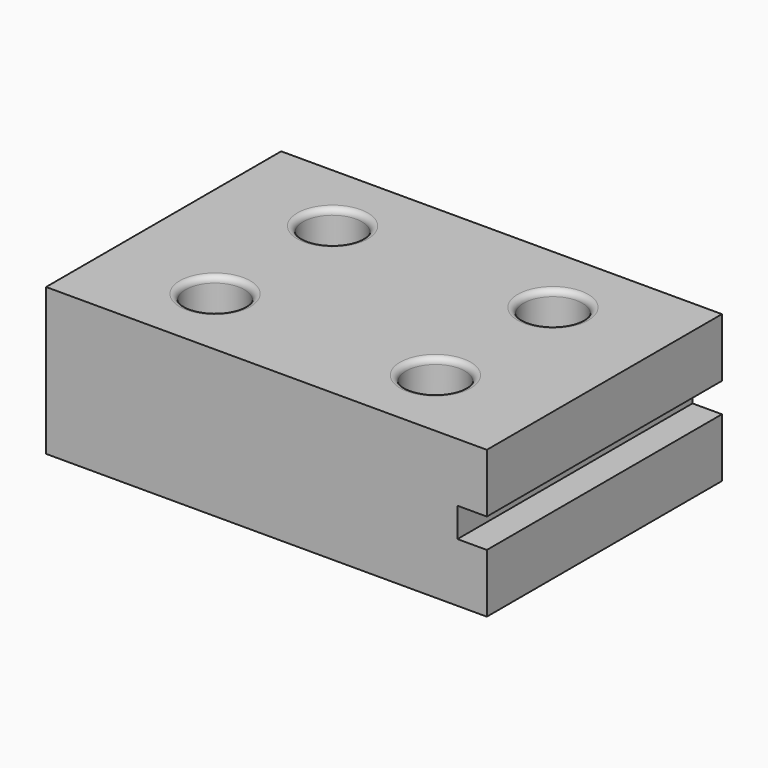
from build123d import *

# Parameters (mm, degrees)
SKETCH_W     = 37.5
SKETCH_H     = 50
SKETCH_R     = 5
PAD_DEPTH    = 25
SKETCH001_W  = 5
SKETCH001_H  = 5
POCKET_DEPTH = 50.001
FILLET_R     = 1
FILLET001_R  = 1


with BuildPart() as part:
    # Sketch → Pad (new body)
    with BuildSketch(Plane.XY):
        with Locations((18.75, 0)):
            Rectangle(SKETCH_W, SKETCH_H)
        with Locations((18.75, 12.5)):
            Circle(SKETCH_R, mode=Mode.SUBTRACT)
        with Locations((18.75, -12.5)):
            Circle(SKETCH_R, mode=Mode.SUBTRACT)
    pad = extrude(amount=PAD_DEPTH)

    # Mirrored: Pad across Sketch V_Axis
    add(pad.mirror(Plane(origin=(0, 0, 0), x_dir=(0, 0, 1), z_dir=(1, 0, 0))))

    # Sketch001 (on Face3 of Mirrored) → Pocket (cut, through all)
    with BuildSketch(Plane.XZ.offset(25)):
        with Locations((35, 12.5)):
            Rectangle(SKETCH001_W, SKETCH001_H)
    extrude(amount=-POCKET_DEPTH, mode=Mode.SUBTRACT)

    # Fillet
    fillet_edges = [part.edges().sort_by_distance(p)[0] for p in [
        (-13.75, -12.5, 25),
        (-13.75, 12.5, 25),
        (13.75, 12.5, 25),
        (13.75, -12.5, 25),
    ]]
    fillet(fillet_edges, radius=FILLET_R)

    # Fillet001
    fillet001_edges = [part.edges().sort_by_distance(p)[0] for p in [
        (13.75, -12.5, 0),
        (13.75, 12.5, 0),
        (-13.75, 12.5, 0),
        (-13.75, -12.5, 0),
    ]]
    fillet(fillet001_edges, radius=FILLET001_R)


solid = part.part
